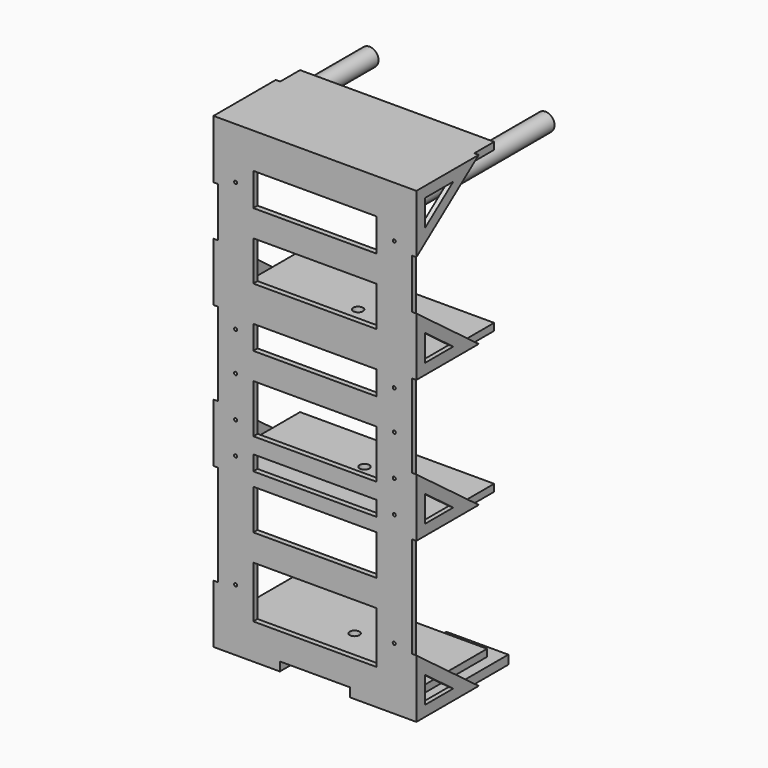
from build123d import *

# Parameters (mm, degrees)
SKETCH005_R             = 0.855
SKETCH005_R_2           = 0.85
SKETCH005_W             = 69.6
SKETCH005_H             = 13.447006
SKETCH005_H_2           = 27.45073
SKETCH005_H_3           = 18.514511
SKETCH005_H_4           = 22.526123
SKETCH005_H_5           = 22.717146
SKETCH005_H_6           = 29.263161
SKETCH005_H_7           = 8.474735
PAD004_DEPTH            = 3
SKETCH007_W             = 35
SKETCH007_H             = 5
PAD006_DEPTH            = 65
PAD006_DEPTH_BACK       = 3
HOLE001_D               = 3.4
HOLE001_DEPTH           = 25
HOLE001_CSINK_D         = 8
HOLE001_CSINK_ANGLE     = 90
PAD007_DEPTH            = 2.5
SKETCH010_W             = 55
SKETCH010_H             = 4
SKETCH010_W_2           = 50
PAD008_DEPTH            = 109.6
SKETCH011_R             = 2.75
POCKET_DEPTH            = 5
SKETCH012_R             = 2.75
POCKET001_DEPTH         = 5
SKETCH013_R             = 2.75
POCKET002_DEPTH         = 5
SKETCH014_R             = 5.1
PAD009_DEPTH            = 97.65
SKETCH015_R             = 1.7
POCKET003_DEPTH         = 14
BODY001_PLACEMENT_ANGLE = 180


with BuildPart() as part:
    # Sketch005 → Pad004 (new body)
    with BuildSketch(Plane.XZ):
        Polygon((-54.8, 256.6), (-54.8, 20), (-54.8, 0), (54.8, 0), (54.8, 20), (54.8, 256.6), (54.8, 259), (-54.8, 259), align=None)
        with Locations((-44.8, 30)):
            Circle(SKETCH005_R, mode=Mode.SUBTRACT)
        with Locations((44.8, 30)):
            Circle(SKETCH005_R, mode=Mode.SUBTRACT)
        with Locations((-44.8, 112)):
            Circle(SKETCH005_R, mode=Mode.SUBTRACT)
        with Locations((44.8, 112)):
            Circle(SKETCH005_R, mode=Mode.SUBTRACT)
        with Locations((-44.8, 157)):
            Circle(SKETCH005_R, mode=Mode.SUBTRACT)
        with Locations((44.8, 157)):
            Circle(SKETCH005_R, mode=Mode.SUBTRACT)
        with Locations((-44.8, 135)):
            Circle(SKETCH005_R, mode=Mode.SUBTRACT)
        with Locations((44.8, 135)):
            Circle(SKETCH005_R, mode=Mode.SUBTRACT)
        with Locations((-44.8, 230)):
            Circle(SKETCH005_R, mode=Mode.SUBTRACT)
        with Locations((44.8, 230)):
            Circle(SKETCH005_R, mode=Mode.SUBTRACT)
        with Locations((-44.8, 94)):
            Circle(SKETCH005_R, mode=Mode.SUBTRACT)
        with Locations((44.8, 94)):
            Circle(SKETCH005_R_2, mode=Mode.SUBTRACT)
        with Locations((0, 156.235863)):
            Rectangle(SKETCH005_W, SKETCH005_H, mode=Mode.SUBTRACT)
        with Locations((0, 120.786995)):
            Rectangle(SKETCH005_W, SKETCH005_H_2, mode=Mode.SUBTRACT)
        with Locations((0, 229.742745)):
            Rectangle(SKETCH005_W, SKETCH005_H_3, mode=Mode.SUBTRACT)
        with Locations((0, 194.222427)):
            Rectangle(SKETCH005_W, SKETCH005_H_4, mode=Mode.SUBTRACT)
        with Locations((0, 70.621734)):
            Rectangle(SKETCH005_W, SKETCH005_H_5, mode=Mode.SUBTRACT)
        with Locations((0, 29.63158)):
            Rectangle(SKETCH005_W, SKETCH005_H_6, mode=Mode.SUBTRACT)
        with Locations((0, 93.844347)):
            Rectangle(SKETCH005_W, SKETCH005_H_7, mode=Mode.SUBTRACT)
    extrude(amount=-PAD004_DEPTH)

    # Sketch007 → Pad006 (join, two sides)
    with BuildSketch(Plane.XZ) as pad006_sk:
        with Locations((-37.3, -2.5)):
            Rectangle(SKETCH007_W, SKETCH007_H)
        with Locations((37.3, -2.5)):
            Rectangle(SKETCH007_W, SKETCH007_H)
    extrude(amount=PAD006_DEPTH)
    extrude(pad006_sk.sketch, amount=-PAD006_DEPTH_BACK)

    # Hole001
    with Locations(Plane.XY):
        with Locations((-37.3, -55), (37.3, -55)):
            CounterSinkHole(HOLE001_D / 2, HOLE001_CSINK_D / 2, depth=HOLE001_DEPTH, counter_sink_angle=HOLE001_CSINK_ANGLE)

    # Sketch009 (on DatumPlane) → Pad007 (join)
    with BuildSketch(Plane.YZ.offset(54.8)):
        Polygon((-41, -5), (3, -5), (3, 28), align=None)
        Polygon((-23, 1), (-3, 16), (-3, 1), align=None, mode=Mode.SUBTRACT)
        Polygon((3, 198), (3, 165), (-41, 165), align=None)
        Polygon((-23, 171), (-3, 186), (-3, 171), align=None, mode=Mode.SUBTRACT)
        Polygon((3, 226), (3, 259), (-41, 259), align=None)
        Polygon((-23, 253), (-3, 238), (-3, 253), align=None, mode=Mode.SUBTRACT)
        Polygon((3, 118), (3, 85), (-41, 85), align=None)
        Polygon((-23, 91), (-3, 106), (-3, 91), align=None, mode=Mode.SUBTRACT)
    pad007 = extrude(amount=PAD007_DEPTH)

    # Mirrored001: Pad007 across YZ
    add(pad007.mirror(Plane.YZ))

    # Sketch010 (on DatumPlane) → Pad008 (join)
    with BuildSketch(Plane.YZ.offset(54.8)):
        with Locations((-27.5, 87)):
            Rectangle(SKETCH010_W, SKETCH010_H)
        with Locations((-27.5, 257)):
            Rectangle(SKETCH010_W, SKETCH010_H)
        with Locations((-27.5, 167)):
            Rectangle(SKETCH010_W, SKETCH010_H)
        with Locations((-25, 7)):
            Rectangle(SKETCH010_W_2, SKETCH010_H)
    extrude(amount=-PAD008_DEPTH)

    # Sketch011 (on DatumPlane) → Pocket (cut)
    with BuildSketch(Plane.XY.offset(169)):
        with Locations((0, -27.5)):
            Circle(SKETCH011_R)
    extrude(amount=-POCKET_DEPTH, mode=Mode.SUBTRACT)

    # Sketch012 (on DatumPlane) → Pocket001 (cut)
    with BuildSketch(Plane.XY.offset(89)):
        with Locations((0, -32)):
            Circle(SKETCH012_R)
    extrude(amount=-POCKET001_DEPTH, mode=Mode.SUBTRACT)

    # Sketch013 (on DatumPlane) → Pocket002 (cut)
    with BuildSketch(Plane.XY.offset(9)):
        with Locations((0, -25)):
            Circle(SKETCH013_R)
    extrude(amount=-POCKET002_DEPTH, mode=Mode.SUBTRACT)

    # Sketch014 → Pad009 (join)
    with BuildSketch(Plane.XZ):
        with Locations((-49.7, 249.9)):
            Circle(SKETCH014_R)
        with Locations((49.7, 249.9)):
            Circle(SKETCH014_R)
    extrude(amount=PAD009_DEPTH)

    # Sketch015 (on DatumPlane) → Pocket003 (cut)
    with BuildSketch(Plane.XZ.offset(97.65)):
        with Locations((-49.7, 249.9)):
            Circle(SKETCH015_R)
        with Locations((49.7, 249.9)):
            Circle(SKETCH015_R)
    extrude(amount=-POCKET003_DEPTH, mode=Mode.SUBTRACT)


with BuildPart() as part_1:
    # Body001 placement: moved
    add(part.part.moved(Location((0.1, 5, 0))).rotate(Axis((0.1, 5, 0), (0, 0, 1)), BODY001_PLACEMENT_ANGLE))


solid = part_1.part
